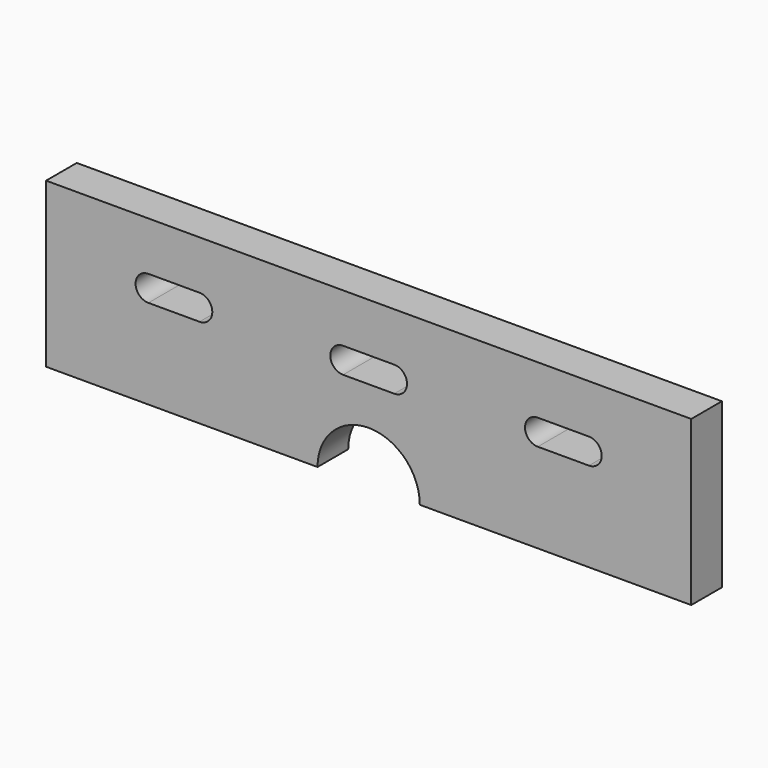
from build123d import *

# Parameters (mm, degrees)
F1_DEPTH = 19.05


with BuildPart() as f1:
    # F0 (on Front) → F1 (new body)
    with BuildSketch(Plane.XZ):
        with BuildLine():
            Line((-160.187716, -40.682596), (-25.399898, -40.682596))
            ThreePointArc((-25.399898, -40.682596), (0, -15.282697), (25.399898, -40.682596))
            Line((25.399898, -40.682596), (160.187742, -40.682596))
            Line((160.187742, -40.682596), (160.187742, 40.682596))
            Line((160.187742, 40.682596), (-160.187716, 40.682596))
            Line((-160.187716, 40.682596), (-160.187716, -40.682596))
        make_face()
        with BuildLine():
            ThreePointArc((-109.387919, 3.767226), (-115.737894, 10.117201), (-109.387919, 16.467176))
            Line((-109.387919, 16.467176), (-83.988021, 16.467176))
            ThreePointArc((-83.988021, 16.467176), (-77.638046, 10.117201), (-83.988021, 3.767226))
            Line((-83.988021, 3.767226), (-109.387919, 3.767226))
        make_face(mode=Mode.SUBTRACT)
        with BuildLine():
            ThreePointArc((-12.699949, 3.767226), (-19.049924, 10.117201), (-12.699949, 16.467176))
            Line((-12.699949, 16.467176), (12.699949, 16.467176))
            ThreePointArc((12.699949, 16.467176), (19.049924, 10.117201), (12.699949, 3.767226))
            Line((12.699949, 3.767226), (-12.699949, 3.767226))
        make_face(mode=Mode.SUBTRACT)
        with BuildLine():
            ThreePointArc((109.387945, 16.467176), (115.737919, 10.117201), (109.387945, 3.767226))
            Line((109.387945, 3.767226), (83.988021, 3.767226))
            ThreePointArc((83.988021, 3.767226), (77.638046, 10.117201), (83.988021, 16.467176))
            Line((83.988021, 16.467176), (109.387945, 16.467176))
        make_face(mode=Mode.SUBTRACT)
    extrude(amount=F1_DEPTH)


solid = f1.part
